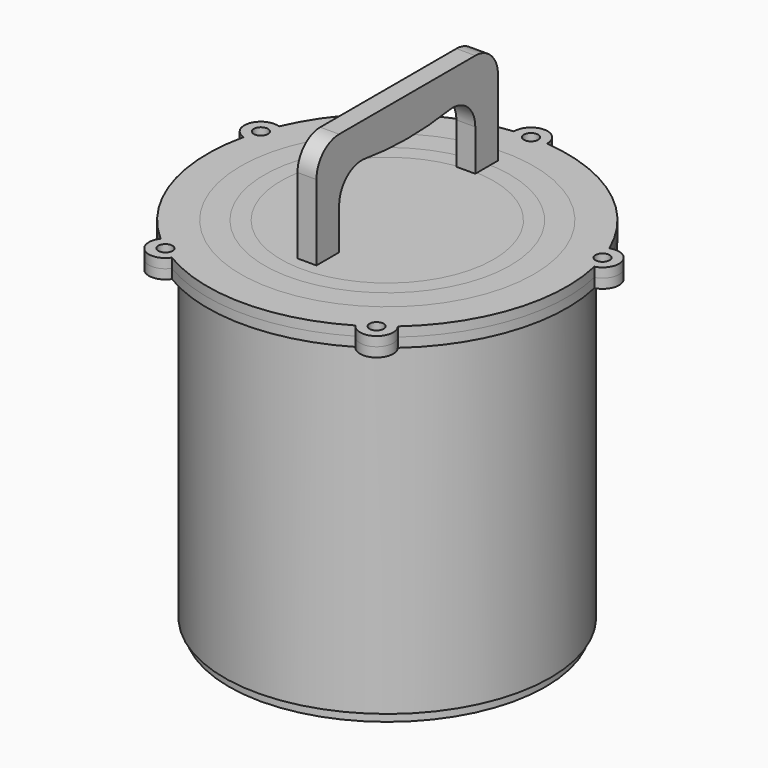
from build123d import *

# Parameters (mm, degrees)
F0_R      = 4.7625
F1_DEPTH  = 6.35
F3_DEPTH  = 12.7
F4_R      = 19.05
F5_R      = 4.7625
F5_R_2    = 111.125
F6_DEPTH  = 6.35
F7_R      = 109.5375
F7_R_2    = 100.0125
F8_DEPTH  = 228.6
F9_R      = 106.3625
F10_DEPTH = 6.35
F12_R     = 98.425
F12_R_2   = 82.55
F13_DEPTH = 6.35
F14_R     = 71.4375
F15_DEPTH = 6.35


with BuildPart() as f1:
    # F0 (on Top) → F1 (new body)
    with BuildSketch(Plane.XY):
        with BuildLine():
            ThreePointArc((110.916128, 47.714949), (70.971519, 97.683916), (11.104645, 120.232237))
            ThreePointArc((11.104645, 120.232237), (0, 131.7625), (-11.104645, 120.232237))
            ThreePointArc((-11.104645, 120.232237), (-70.971519, 97.683916), (-110.916128, 47.714949))
            ThreePointArc((-110.916128, 47.714949), (-125.313584, 40.716852), (-117.779176, 26.59266))
            ThreePointArc((-117.779176, 26.59266), (-114.83433, -37.311936), (-79.654582, -90.742777))
            ThreePointArc((-79.654582, -90.742777), (-77.448054, -106.598102), (-61.68689, -103.797069))
            ThreePointArc((-61.68689, -103.797069), (0, -120.74396), (61.68689, -103.797069))
            ThreePointArc((61.68689, -103.797069), (77.448054, -106.598102), (79.654582, -90.742777))
            ThreePointArc((79.654582, -90.742777), (114.83433, -37.311936), (117.779176, 26.59266))
            ThreePointArc((117.779176, 26.59266), (125.313584, 40.716852), (110.916128, 47.714949))
        make_face()
        with Locations((-70.916291, -97.6079)):
            Circle(F0_R, mode=Mode.SUBTRACT)
        with Locations((70.916291, -97.6079)):
            Circle(F0_R, mode=Mode.SUBTRACT)
        with Locations((-114.744969, 37.2829)):
            Circle(F0_R, mode=Mode.SUBTRACT)
        with Locations((0, 120.65)):
            Circle(F0_R, mode=Mode.SUBTRACT)
        with Locations((114.744969, 37.2829)):
            Circle(F0_R, mode=Mode.SUBTRACT)
    extrude(amount=F1_DEPTH)


with BuildPart() as f3:
    # F2 (on Right) → F3 (new body)
    with BuildSketch(Plane.YZ):
        with BuildLine():
            Line((-56.306826, 14.350432), (-56.306826, 65.150432))
            ThreePointArc((-56.306826, 65.150432), (0.843174, 58.295473), (57.993174, 65.150432))
            Line((57.993174, 65.150432), (57.993174, 14.350432))
            Line((57.993174, 14.350432), (77.043174, 14.350432))
            Line((77.043174, 14.350432), (77.043174, 84.200432))
            Line((77.043174, 84.200432), (-75.356826, 84.200432))
            Line((-75.356826, 84.200432), (-75.356826, 14.350432))
            Line((-75.356826, 14.350432), (-56.306826, 14.350432))
        make_face()
    extrude(amount=F3_DEPTH)

    # F4
    f4_edges = [f3.edges().sort_by_distance(p)[0] for p in [
        (6.35, -75.356826, 84.200432),
        (6.35, 77.043174, 84.200432),
        (6.35, -56.306826, 65.150432),
        (6.35, 57.993174, 65.150432),
    ]]
    fillet(f4_edges, radius=F4_R)


with BuildPart() as f6:
    # F5 (on face) → F6 (new body)
    with BuildSketch(Plane(origin=(0, 0, 0), x_dir=(1, 0, 0), z_dir=(0, 0, -1))):
        with BuildLine():
            ThreePointArc((117.779176, -26.59266), (114.83433, 37.311936), (79.654582, 90.742777))
            ThreePointArc((79.654582, 90.742777), (77.448054, 106.598102), (61.68689, 103.797069))
            ThreePointArc((61.68689, 103.797069), (0, 120.74396), (-61.68689, 103.797069))
            ThreePointArc((-61.68689, 103.797069), (-77.448054, 106.598102), (-79.654582, 90.742777))
            ThreePointArc((-79.654582, 90.742777), (-114.83433, 37.311936), (-117.779176, -26.59266))
            ThreePointArc((-117.779176, -26.59266), (-125.313584, -40.716852), (-110.916128, -47.714949))
            ThreePointArc((-110.916128, -47.714949), (-70.971519, -97.683916), (-11.104645, -120.232237))
            ThreePointArc((-11.104645, -120.232237), (0, -131.7625), (11.104645, -120.232237))
            ThreePointArc((11.104645, -120.232237), (70.971519, -97.683916), (110.916128, -47.714949))
            ThreePointArc((110.916128, -47.714949), (125.313584, -40.716852), (117.779176, -26.59266))
        make_face()
        with Locations((-114.744969, -37.2829)):
            Circle(F5_R, mode=Mode.SUBTRACT)
        with Locations((0, -120.65)):
            Circle(F5_R, mode=Mode.SUBTRACT)
        with Locations((114.744969, -37.2829)):
            Circle(F5_R, mode=Mode.SUBTRACT)
        with Locations((-70.916291, 97.6079)):
            Circle(F5_R, mode=Mode.SUBTRACT)
        Circle(F5_R_2, mode=Mode.SUBTRACT)
        with Locations((70.916291, 97.6079)):
            Circle(F5_R, mode=Mode.SUBTRACT)
    extrude(amount=F6_DEPTH)


with BuildPart() as f8:
    # F7 (on face) → F8 (new body)
    with BuildSketch(Plane(origin=(0, 0, 0), x_dir=(1, 0, 0), z_dir=(0, 0, -1))):
        Circle(F7_R)
        Circle(F7_R_2, mode=Mode.SUBTRACT)
    extrude(amount=F8_DEPTH)


with BuildPart() as f10:
    # F9 (on face) → F10 (new body)
    with BuildSketch(Plane(origin=(0, 0, -228.6), x_dir=(1, 0, 0), z_dir=(0, 0, -1))):
        Circle(F9_R)
    extrude(amount=F10_DEPTH)


with BuildPart() as f13:
    # F12 (on face) → F13 (new body)
    with BuildSketch(Plane.XY):
        Circle(F12_R)
        Circle(F12_R_2, mode=Mode.SUBTRACT)
    extrude(amount=F13_DEPTH)


with BuildPart() as f15:
    # F14 (on face) → F15 (new body)
    with BuildSketch(Plane.XY):
        Circle(F14_R)
    extrude(amount=F15_DEPTH)


solid = Compound([f1.part, f3.part, f6.part, f8.part, f10.part, f13.part, f15.part])
